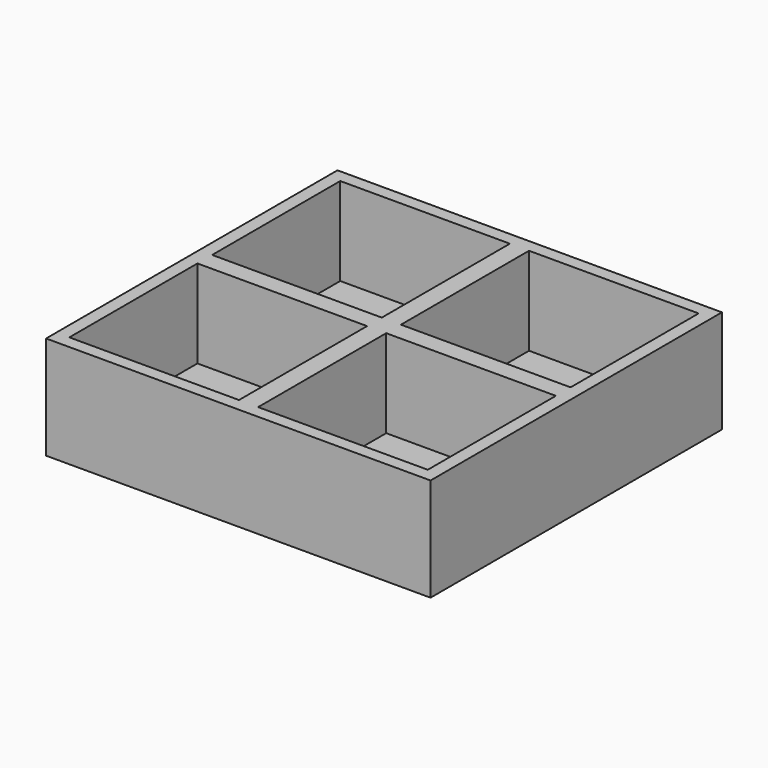
from build123d import *

# Parameters (mm, degrees)
F0_W     = 38
F0_H     = 36
F1_DEPTH = 1.5
F2_W     = 38
F2_H     = 36
F2_W_2   = 16.7669200455
F2_H_2   = 1.818750985
F2_W_3   = 1.8922140589
F2_H_3   = 15.8241032623
F3_DEPTH = 8.7


with BuildPart() as f1:
    # F0 (on Top) → F1 (new body)
    with BuildSketch(Plane.XY):
        Rectangle(F0_W, F0_H)
    extrude(amount=F1_DEPTH)

    # F2 (on face) → F3 (join)
    with BuildSketch(Plane.XY.offset(1.5)):
        Rectangle(F2_W, F2_H)
        Polygon((0.9461070294, 16.7334787548), (17.7130270749, 16.7334787548), (17.7130270749, 0.9093754925), (17.7130270749, -0.9093754925), (17.7130270749, -16.7334787548), (0.9461070294, -16.7334787548), (-0.9461070294, -16.7334787548), (-17.7130270749, -16.7334787548), (-17.7130270749, -0.9093754925), (-17.7130270749, 0.9093754925), (-17.7130270749, 16.7334787548), (-0.9461070294, 16.7334787548), align=None, mode=Mode.SUBTRACT)
        with Locations((-9.3295670522, 0)):
            Rectangle(F2_W_2, F2_H_2)
        with Locations((9.3295670522, 0)):
            Rectangle(F2_W_2, F2_H_2)
        with Locations((0, 8.8214271236)):
            Rectangle(F2_W_3, F2_H_3)
        with Locations((0, -8.8214271236)):
            Rectangle(F2_W_3, F2_H_3)
        Rectangle(F2_W_3, F2_H_2)
    extrude(amount=F3_DEPTH)


solid = f1.part
